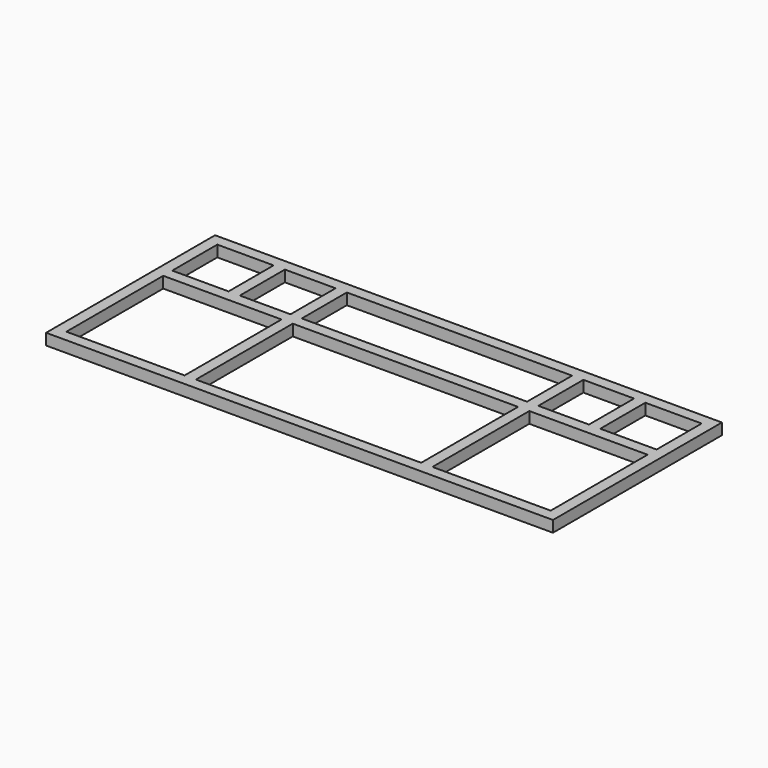
from build123d import *

# Parameters (mm, degrees)
F0_W     = 1800
F0_H     = 750
F1_DEPTH = 40
F2_W     = 420
F2_H     = 430
F2_W_2   = 800
F2_W_3   = 200
F2_H_2   = 200
F2_W_4   = 180
F3_DEPTH = 40


with BuildPart() as f1:
    # F0 (on Top) → F1 (new body)
    with BuildSketch(Plane.XY):
        with Locations((8.922771, -251.321946)):
            Rectangle(F0_W, F0_H)
    extrude(amount=F1_DEPTH)

    # F2 (on face) → F3 (cut)
    with BuildSketch(Plane.XY.offset(40)):
        with Locations((-641.077229, -371.321946)):
            Rectangle(F2_W, F2_H)
        with Locations((8.922771, -371.321946)):
            Rectangle(F2_W_2, F2_H)
        with Locations((-751.077229, -16.321946)):
            Rectangle(F2_W_3, F2_H_2)
        with Locations((768.922771, -16.321946)):
            Rectangle(F2_W_3, F2_H_2)
        with Locations((658.922771, -371.321946)):
            Rectangle(F2_W, F2_H)
        with Locations((-521.077229, -16.321946)):
            Rectangle(F2_W_4, F2_H_2)
        with Locations((538.922771, -16.321946)):
            Rectangle(F2_W_4, F2_H_2)
        with Locations((8.922771, -16.321946)):
            Rectangle(F2_W_2, F2_H_2)
    extrude(amount=-F3_DEPTH, mode=Mode.SUBTRACT)


solid = f1.part
